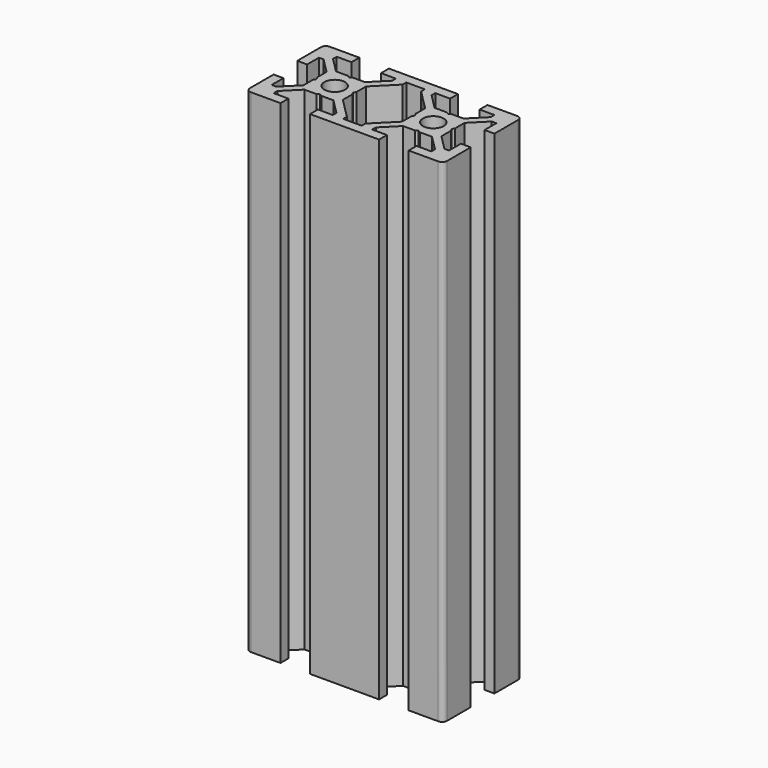
from build123d import *

# Parameters (mm, degrees)
F0_R     = 2.1
F1_DEPTH = 100


with BuildPart() as f1:
    # F0 (on Top) → F1 (new body)
    with BuildSketch(Plane.XY):
        with BuildLine():
            Line((14.135135, -0.519615), (13.835135, 0))
            Line((13.835135, 0), (14.135135, 0.519615))
            Line((14.135135, 0.519615), (14.135135, 2.93934))
            Line((14.135135, 2.93934), (17.195795, 6))
            Line((17.195795, 6), (18.135135, 6))
            Line((18.135135, 6), (18.135135, 3))
            Line((18.135135, 3), (20.135135, 3))
            Line((20.135135, 3), (20.135135, 9))
            ThreePointArc((20.135135, 9), (19.842242, 9.707107), (19.135135, 10))
            Line((19.135135, 10), (13.135135, 10))
            Line((13.135135, 10), (13.135135, 8))
            Line((13.135135, 8), (16.135135, 8))
            Line((16.135135, 8), (16.135135, 7.06066))
            Line((16.135135, 7.06066), (13.074475, 4))
            Line((13.074475, 4), (10.65475, 4))
            Line((10.65475, 4), (10.135135, 3.7))
            Line((10.135135, 3.7), (9.61552, 4))
            Line((9.61552, 4), (7.195795, 4))
            Line((7.195795, 4), (4.135135, 7.06066))
            Line((4.135135, 7.06066), (4.135135, 8))
            Line((4.135135, 8), (7.135135, 8))
            Line((7.135135, 8), (7.135135, 10))
            Line((7.135135, 10), (-6.864865, 10))
            Line((-6.864865, 10), (-6.864865, 8))
            Line((-6.864865, 8), (-3.864865, 8))
            Line((-3.864865, 8), (-3.864865, 7.06066))
            Line((-3.864865, 7.06066), (-6.925525, 4))
            Line((-6.925525, 4), (-9.34525, 4))
            Line((-9.34525, 4), (-9.864865, 3.7))
            Line((-9.864865, 3.7), (-10.38448, 4))
            Line((-10.38448, 4), (-12.804205, 4))
            Line((-12.804205, 4), (-15.864865, 7.06066))
            Line((-15.864865, 7.06066), (-15.864865, 8))
            Line((-15.864865, 8), (-12.864865, 8))
            Line((-12.864865, 8), (-12.864865, 10))
            Line((-12.864865, 10), (-18.864865, 10))
            ThreePointArc((-18.864865, 10), (-19.571972, 9.707107), (-19.864865, 9))
            Line((-19.864865, 9), (-19.864865, 3))
            Line((-19.864865, 3), (-17.864865, 3))
            Line((-17.864865, 3), (-17.864865, 6))
            Line((-17.864865, 6), (-16.925525, 6))
            Line((-16.925525, 6), (-13.864865, 2.93934))
            Line((-13.864865, 2.93934), (-13.864865, 0.519615))
            Line((-13.864865, 0.519615), (-13.564865, 0))
            Line((-13.564865, 0), (-13.864865, -0.519615))
            Line((-13.864865, -0.519615), (-13.864865, -2.93934))
            Line((-13.864865, -2.93934), (-16.925525, -6))
            Line((-16.925525, -6), (-17.864865, -6))
            Line((-17.864865, -6), (-17.864865, -3))
            Line((-17.864865, -3), (-19.864865, -3))
            Line((-19.864865, -3), (-19.864865, -9))
            ThreePointArc((-19.864865, -9), (-19.571972, -9.707107), (-18.864865, -10))
            Line((-18.864865, -10), (-12.864865, -10))
            Line((-12.864865, -10), (-12.864865, -8))
            Line((-12.864865, -8), (-15.864865, -8))
            Line((-15.864865, -8), (-15.864865, -7.06066))
            Line((-15.864865, -7.06066), (-12.804205, -4))
            Line((-12.804205, -4), (-10.38448, -4))
            Line((-10.38448, -4), (-9.864865, -3.7))
            Line((-9.864865, -3.7), (-9.34525, -4))
            Line((-9.34525, -4), (-6.925525, -4))
            Line((-6.925525, -4), (-3.864865, -7.06066))
            Line((-3.864865, -7.06066), (-3.864865, -8))
            Line((-3.864865, -8), (-6.864865, -8))
            Line((-6.864865, -8), (-6.864865, -10))
            Line((-6.864865, -10), (7.135135, -10))
            Line((7.135135, -10), (7.135135, -8))
            Line((7.135135, -8), (4.135135, -8))
            Line((4.135135, -8), (4.135135, -7.06066))
            Line((4.135135, -7.06066), (7.195795, -4))
            Line((7.195795, -4), (9.61552, -4))
            Line((9.61552, -4), (10.135135, -3.7))
            Line((10.135135, -3.7), (10.65475, -4))
            Line((10.65475, -4), (13.074475, -4))
            Line((13.074475, -4), (16.135135, -7.06066))
            Line((16.135135, -7.06066), (16.135135, -8))
            Line((16.135135, -8), (13.135135, -8))
            Line((13.135135, -8), (13.135135, -10))
            Line((13.135135, -10), (19.135135, -10))
            ThreePointArc((19.135135, -10), (19.842242, -9.707107), (20.135135, -9))
            Line((20.135135, -9), (20.135135, -3))
            Line((20.135135, -3), (18.135135, -3))
            Line((18.135135, -3), (18.135135, -6))
            Line((18.135135, -6), (17.195795, -6))
            Line((17.195795, -6), (14.135135, -2.93934))
            Line((14.135135, -2.93934), (14.135135, -0.519615))
        make_face()
        with Locations((-9.864865, 0)):
            Circle(F0_R, mode=Mode.SUBTRACT)
        Polygon((6.435135, 0), (6.135135, -0.519615), (6.135135, -2.93934), (3.074475, -6), (2.013815, -7.06066), (2.013815, -8), (-1.743545, -8), (-1.743545, -7.06066), (-2.804205, -6), (-5.864865, -2.93934), (-5.864865, -0.519615), (-6.164865, 0), (-5.864865, 0.519615), (-5.864865, 2.93934), (-2.804205, 6), (-1.743545, 7.06066), (-1.743545, 8), (2.013815, 8), (2.013815, 7.06066), (3.074475, 6), (6.135135, 2.93934), (6.135135, 0.519615), align=None, mode=Mode.SUBTRACT)
        with Locations((10.135135, 0)):
            Circle(F0_R, mode=Mode.SUBTRACT)
    extrude(amount=F1_DEPTH)


solid = f1.part
